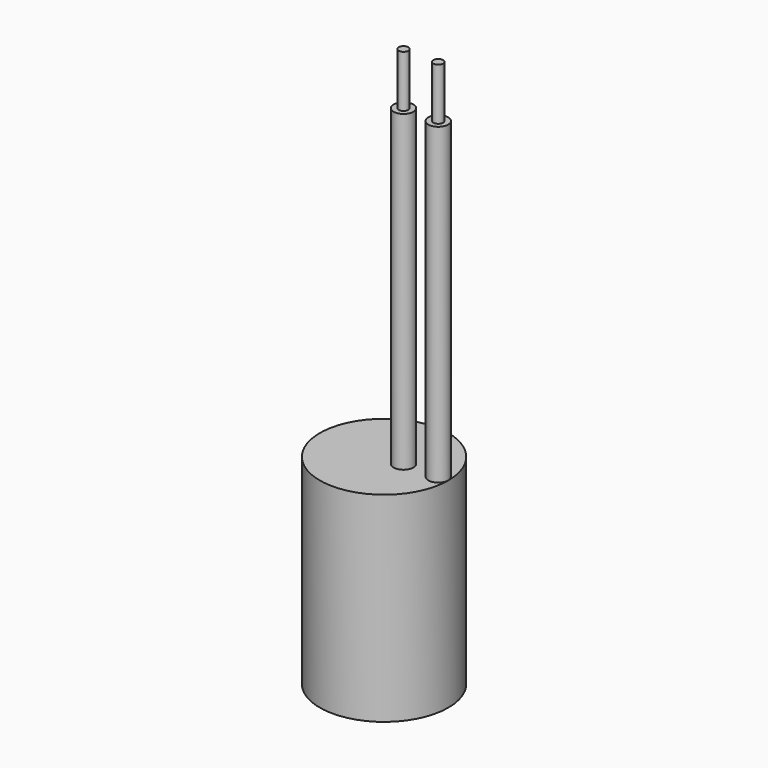
from build123d import *

# Parameters (mm, degrees)
F0_R     = 23.495
F1_DEPTH = 73.152
F2_R     = 3.6195
F3_DEPTH = 114.554
F4_R     = 1.778
F5_DEPTH = 19.05


with BuildPart() as f1:
    # F0 (on Top) → F1 (new body)
    with BuildSketch(Plane.XY):
        Circle(F0_R)
    extrude(amount=F1_DEPTH)

    # F2 (on face) → F3 (join)
    with BuildSketch(Plane.XY.offset(73.152)):
        with Locations((19.812, 0)):
            Circle(F2_R)
        with Locations((7.112, 0)):
            Circle(F2_R)
    extrude(amount=F3_DEPTH)

    # F4 (on face) → F5 (join)
    with BuildSketch(Plane.XY.offset(187.706)):
        with Locations((7.112, 0)):
            Circle(F4_R)
        with Locations((19.812, 0)):
            Circle(F4_R)
    extrude(amount=F5_DEPTH)


solid = f1.part
